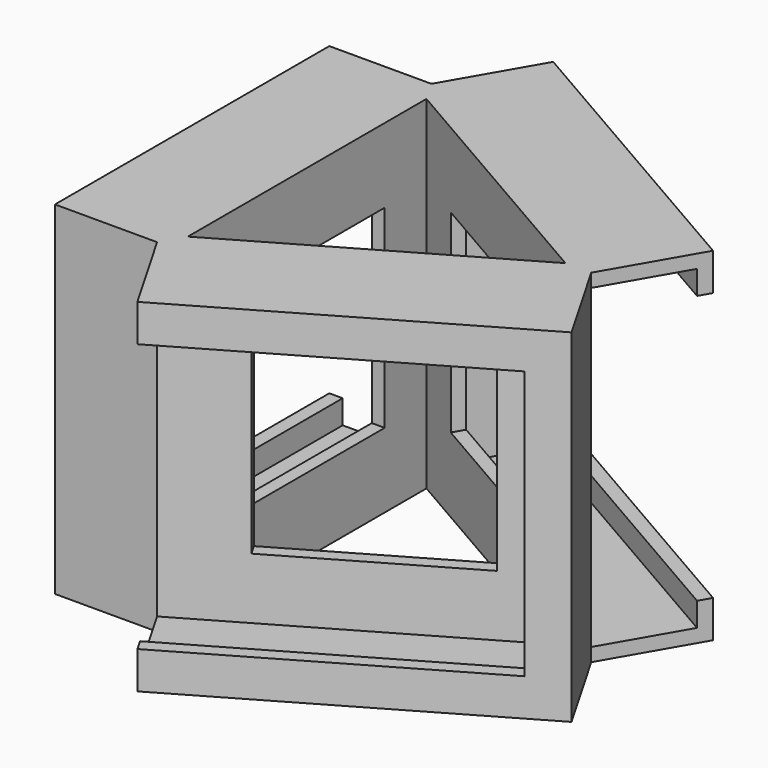
from build123d import *

# Parameters (mm, degrees)
PAD_DEPTH           = 46
SKETCH001_W         = 26
SKETCH001_H         = 26
POCKET_DEPTH        = 5
SKETCH002_W         = 26
SKETCH002_H         = 26
POCKET001_DEPTH     = 5
SKETCH003_W         = 26
SKETCH003_H         = 26
POCKET002_DEPTH     = 5
POCKET002_FACE2_W   = 46
POCKET002_FACE2_H   = 46
POCKET002_FACE2_W_2 = 26
POCKET002_FACE2_H_2 = 26
PAD001_DEPTH        = 13.7
PAD001_FACE1_W      = 46
PAD001_FACE1_H      = 46
PAD001_FACE1_W_2    = 26
PAD001_FACE1_H_2    = 26
PAD002_DEPTH        = 13.7
PAD002_FACE16_W     = 46
PAD002_FACE16_H     = 46
PAD002_FACE16_W_2   = 26
PAD002_FACE16_H_2   = 26
PAD003_DEPTH        = 13.7
SKETCH004_W         = 11.9
SKETCH004_H         = 42.4
POCKET003_DEPTH     = 44
SKETCH005_W         = 41
SKETCH005_H         = 36
POCKET004_DEPTH     = 5
SKETCH006_W         = 11.9
SKETCH006_H         = 42.4
POCKET005_DEPTH     = 44
SKETCH007_W         = 41
SKETCH007_H         = 36
POCKET006_DEPTH     = 5
SKETCH008_W         = 11.9
SKETCH008_H         = 42.4
POCKET007_DEPTH     = 44
SKETCH009_W         = 41
SKETCH009_H         = 36
POCKET008_DEPTH     = 5


with BuildPart() as part:
    # Sketch → Pad (new body)
    with BuildSketch(Plane.XY):
        Polygon((26.5581123827, 0), (-13.2790561914, 23), (-13.2790561914, -23), align=None)
        Polygon((23.0940107676, 0), (-11.5470053838, 20), (-11.5470053838, -20), align=None, mode=Mode.SUBTRACT)
    extrude(amount=PAD_DEPTH)

    # Sketch001 (on Face3 of Pad) → Pocket (cut)
    with BuildSketch(Plane(origin=(6.6395280957, -11.5, 0), x_dir=(0.8660254038, 0.5, 0), z_dir=(0.5, -0.8660254038, 0))):
        with Locations((0, 23)):
            Rectangle(SKETCH001_W, SKETCH001_H)
    extrude(amount=-POCKET_DEPTH, mode=Mode.SUBTRACT)

    # Sketch002 (on Face1 of Pocket) → Pocket001 (cut)
    with BuildSketch(Plane(origin=(6.6395280957, 11.5, 0), x_dir=(-0.8660254038, 0.5, 0), z_dir=(0.5, 0.8660254038, 0))):
        with Locations((0, 23)):
            Rectangle(SKETCH002_W, SKETCH002_H)
    extrude(amount=-POCKET001_DEPTH, mode=Mode.SUBTRACT)

    # Sketch003 (on Face5 of Pocket001) → Pocket002 (cut)
    with BuildSketch(Plane(origin=(-13.2790561914, 0, 0), x_dir=(0, -1, 0), z_dir=(-1, 0, 0))):
        with Locations((0, 23)):
            Rectangle(SKETCH003_W, SKETCH003_H)
    extrude(amount=-POCKET002_DEPTH, mode=Mode.SUBTRACT)

    # Pocket002 Face2 → Pad001 (add)
    with BuildSketch(Plane(origin=(6.6395280957, -11.5, 23), x_dir=(-0.8660254038, -0.5, 0), z_dir=(0.5, -0.8660254038, 0))):
        Rectangle(POCKET002_FACE2_W, POCKET002_FACE2_H)
        Rectangle(POCKET002_FACE2_W_2, POCKET002_FACE2_H_2, mode=Mode.SUBTRACT)
    extrude(amount=PAD001_DEPTH)

    # Pad001 Face1 → Pad002 (add)
    with BuildSketch(Plane(origin=(6.6395280957, 11.5, 23), x_dir=(0.8660254038, -0.5, 0), z_dir=(0.5, 0.8660254038, 0))):
        Rectangle(PAD001_FACE1_W, PAD001_FACE1_H)
        Rectangle(PAD001_FACE1_W_2, PAD001_FACE1_H_2, mode=Mode.SUBTRACT)
    extrude(amount=PAD002_DEPTH)

    # Pad002 Face16 → Pad003 (add)
    with BuildSketch(Plane(origin=(-13.2790561914, 0, 23), x_dir=(0, 1, 0), z_dir=(-1, 0, 0))):
        Rectangle(PAD002_FACE16_W, PAD002_FACE16_H)
        Rectangle(PAD002_FACE16_W_2, PAD002_FACE16_H_2, mode=Mode.SUBTRACT)
    extrude(amount=PAD003_DEPTH)

    # Sketch004 (on Face4 of Pad003) → Pocket003 (cut)
    with BuildSketch(Plane(origin=(19.918584287, -11.5, 0), x_dir=(0.5, 0.8660254038, 0), z_dir=(0.8660254038, -0.5, 0))):
        with Locations((19.2290561914, 23)):
            Rectangle(SKETCH004_W, SKETCH004_H)
    extrude(amount=-POCKET003_DEPTH, mode=Mode.SUBTRACT)

    # Sketch005 (on Face14 of Pocket003) → Pocket004 (cut)
    with BuildSketch(Plane(origin=(13.4895280957, 23.3645480318, 0), x_dir=(-0.8660254038, 0.5, 0), z_dir=(0.5, 0.8660254038, 0))):
        with Locations((-2.5, 23)):
            Rectangle(SKETCH005_W, SKETCH005_H)
    extrude(amount=-POCKET004_DEPTH, mode=Mode.SUBTRACT)

    # Sketch006 (on Face41 of Pocket004) → Pocket005 (cut)
    with BuildSketch(Plane(origin=(0, 23, 0), x_dir=(-1, 0, 0), z_dir=(0, 1, 0))):
        with Locations((19.2290561914, 23)):
            Rectangle(SKETCH006_W, SKETCH006_H)
    extrude(amount=-POCKET005_DEPTH, mode=Mode.SUBTRACT)

    # Sketch007 (on Face40 of Pocket005) → Pocket006 (cut)
    with BuildSketch(Plane(origin=(-26.9790561914, 0, 0), x_dir=(0, -1, 0), z_dir=(-1, 0, 0))):
        with Locations((-2.5, 23)):
            Rectangle(SKETCH007_W, SKETCH007_H)
    extrude(amount=-POCKET006_DEPTH, mode=Mode.SUBTRACT)

    # Sketch008 (on Face8 of Pocket006) → Pocket007 (cut)
    with BuildSketch(Plane(origin=(-19.918584287, -11.5, 0), x_dir=(0.5, -0.8660254038, 0), z_dir=(-0.8660254038, -0.5, 0))):
        with Locations((19.2290561914, 23)):
            Rectangle(SKETCH008_W, SKETCH008_H)
    extrude(amount=-POCKET007_DEPTH, mode=Mode.SUBTRACT)

    # Sketch009 (on Face7 of Pocket007) → Pocket008 (cut)
    with BuildSketch(Plane(origin=(13.4895280957, -23.3645480318, 0), x_dir=(0.8660254038, 0.5, 0), z_dir=(0.5, -0.8660254038, 0))):
        with Locations((-2.5, 23)):
            Rectangle(SKETCH009_W, SKETCH009_H)
    extrude(amount=-POCKET008_DEPTH, mode=Mode.SUBTRACT)


solid = part.part
